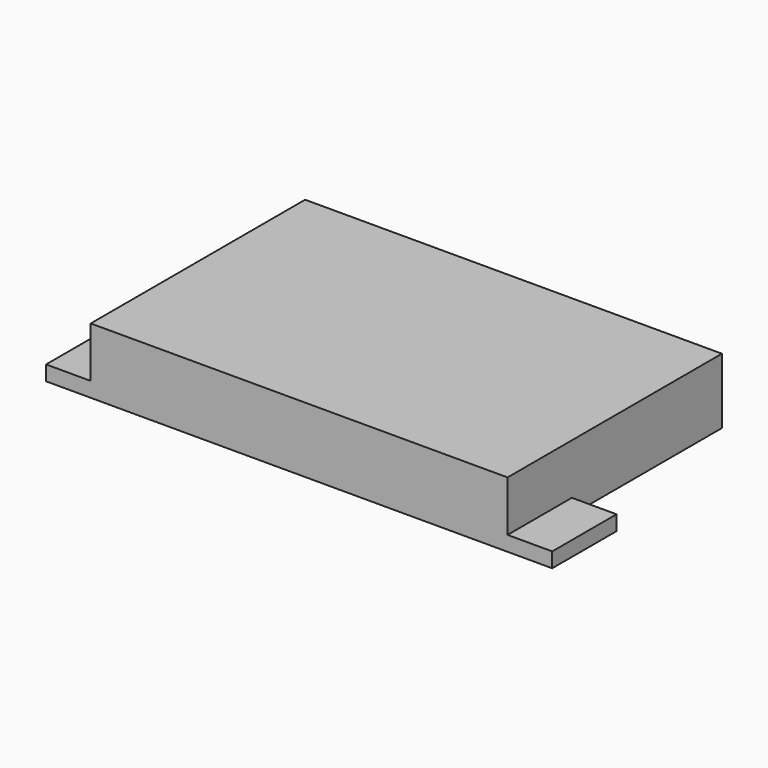
from build123d import *

# Parameters (mm, degrees)
SKETCH_W     = 280
SKETCH_H     = 180
PAD_DEPTH    = 44
SKETCH001_W  = 30
SKETCH001_H  = 54
PAD001_DEPTH = 10


with BuildPart() as pad:
    # Sketch → Pad (new body)
    with BuildSketch(Plane.XY):
        Rectangle(SKETCH_W, SKETCH_H)
    extrude(amount=PAD_DEPTH)


with BuildPart() as fusion:
    # Sketch001 → Pad001 (new body)
    with BuildSketch(Plane.XY):
        with Locations((155, -63)):
            Rectangle(SKETCH001_W, SKETCH001_H)
        with Locations((-155, -63)):
            Rectangle(SKETCH001_W, SKETCH001_H)
    extrude(amount=PAD001_DEPTH)

    # Fusion: union Pad
    add(pad.part)


solid = fusion.part
